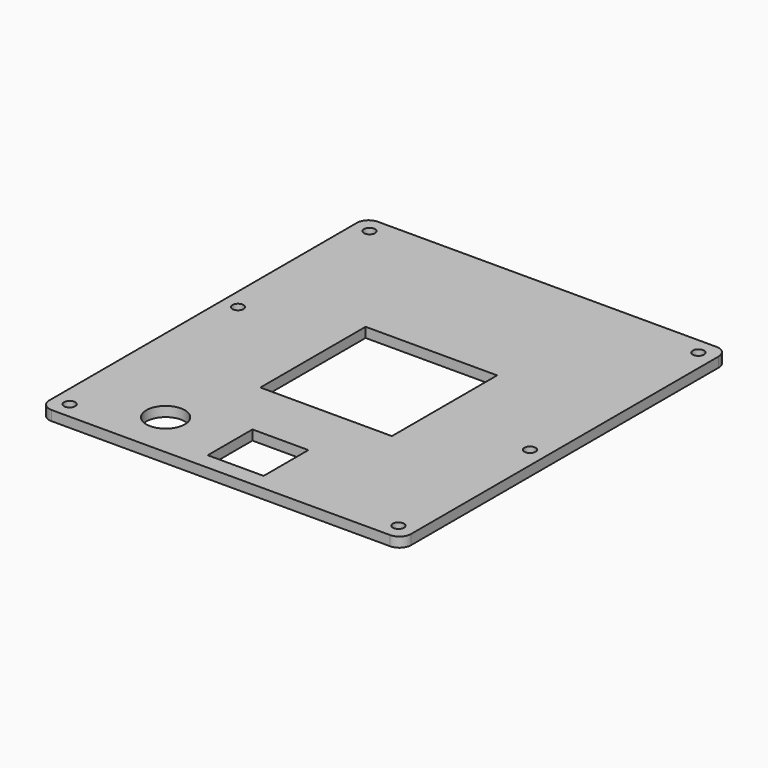
from build123d import *

# Parameters (mm, degrees)
PAD_DEPTH       = 3
SKETCH001_R     = 1.7
HOLE_DEPTH      = 3.001
SKETCH002_W     = 40
SKETCH002_H     = 40
SKETCH002_W_2   = 17
SKETCH002_H_2   = 17
POCKET_DEPTH    = 3.001
SKETCH005_R     = 2.5
PAD001_DEPTH    = 5
SKETCH004_R     = 1.7
HOLE001_DEPTH   = 25
SKETCH003_R     = 5.85
POCKET001_DEPTH = 5


with BuildPart() as part:
    # Sketch → Pad (new body)
    with BuildSketch(Plane.XY):
        with BuildLine():
            Line((10, 130.464466), (10, 13.535534))
            ThreePointArc((10, 13.535534), (11.035534, 11.035534), (13.535534, 10))
            Line((13.535534, 10), (116.464466, 10))
            ThreePointArc((116.464466, 10), (118.964466, 11.035534), (120, 13.535534))
            Line((120, 13.535534), (120, 130.464466))
            ThreePointArc((120, 130.464466), (118.964466, 132.964466), (116.464466, 134))
            Line((116.464466, 134), (13.535534, 134))
            ThreePointArc((13.535534, 134), (11.035534, 132.964466), (10, 130.464466))
        make_face()
    extrude(amount=PAD_DEPTH)

    # Sketch001 → Hole (cut, through all)
    with BuildSketch(Plane.XY):
        with Locations((15, 129)):
            Circle(SKETCH001_R)
        with Locations((15, 79)):
            Circle(SKETCH001_R)
        with Locations((15, 15)):
            Circle(SKETCH001_R)
        with Locations((115, 15)):
            Circle(SKETCH001_R)
        with Locations((115, 65)):
            Circle(SKETCH001_R)
        with Locations((115, 129)):
            Circle(SKETCH001_R)
    extrude(amount=HOLE_DEPTH, mode=Mode.SUBTRACT)

    # Sketch002 → Pocket (cut, through all)
    with BuildSketch(Plane.XY):
        with Locations((65, 70)):
            Rectangle(SKETCH002_W, SKETCH002_H)
        with Locations((65.5, 23.5)):
            Rectangle(SKETCH002_W_2, SKETCH002_H_2)
    extrude(amount=POCKET_DEPTH, mode=Mode.SUBTRACT)

    # Sketch005 → Pad001 (join)
    with BuildSketch(Plane.XY):
        with Locations((90, 56)):
            Circle(SKETCH005_R)
        with Locations((111, 56)):
            Circle(SKETCH005_R)
        with Locations((90, 25)):
            Circle(SKETCH005_R)
        with Locations((111, 25)):
            Circle(SKETCH005_R)
    extrude(amount=-PAD001_DEPTH)

    # Sketch004 → Hole001 (cut)
    with BuildSketch(Plane.XY):
        with Locations((90, 56)):
            Circle(SKETCH004_R)
        with Locations((111, 56)):
            Circle(SKETCH004_R)
        with Locations((90, 25)):
            Circle(SKETCH004_R)
        with Locations((111, 25)):
            Circle(SKETCH004_R)
    extrude(amount=-HOLE001_DEPTH, mode=Mode.SUBTRACT)

    # Sketch003 → Pocket001 (cut)
    with BuildSketch(Plane.XY):
        with Locations((37, 24)):
            Circle(SKETCH003_R)
    extrude(amount=POCKET001_DEPTH, mode=Mode.SUBTRACT)


solid = part.part
